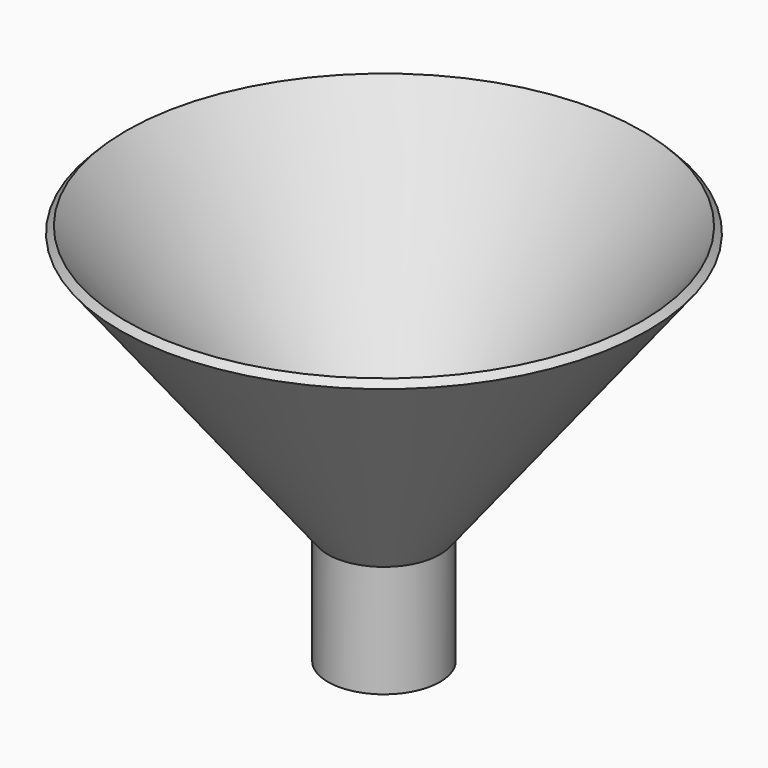
from build123d import *

# Parameters (mm, degrees)
F2_R     = 11.207793
F3_DEPTH = 25.4


with BuildPart() as f1:
    # F0 (on Front) → F1 (revolve)
    with BuildSketch(Plane.XZ):
        Polygon((0, -25.4), (0, 0), (47.056123, 59.934641), (45.668721, 61.34895), (-2.49781, 0), (-12.7, 0), (-12.7, -25.4), align=None)
    revolve(axis=Axis((-12.7, 0, -12.7), (0, 0, 1)))

    # F2 (on face) → F3 (cut)
    with BuildSketch(Plane(origin=(0, 0, -25.4), x_dir=(1, 0, 0), z_dir=(0, 0, -1))):
        with Locations((-12.7, 0)):
            Circle(F2_R)
    extrude(amount=-F3_DEPTH, mode=Mode.SUBTRACT)


solid = f1.part
